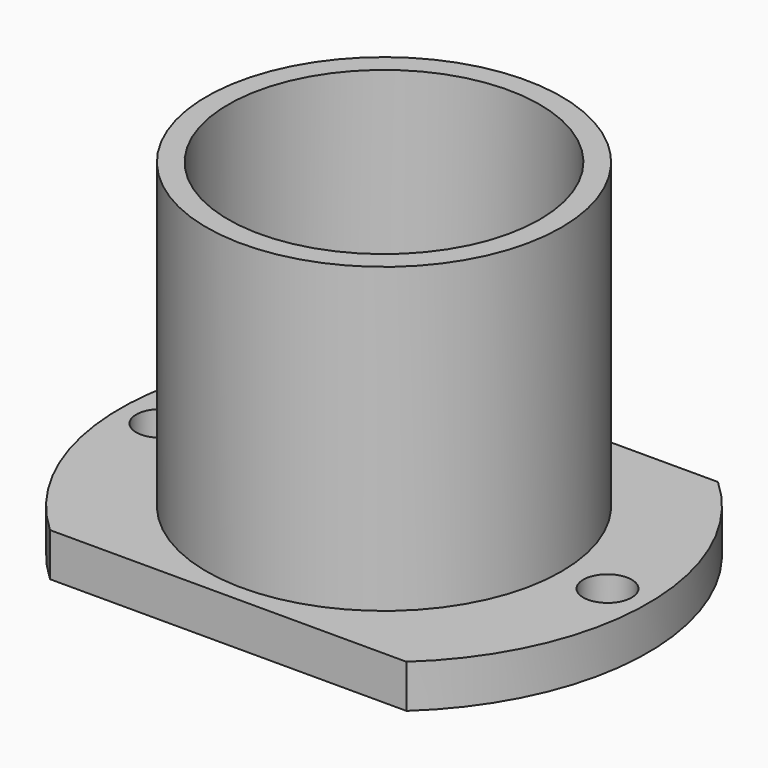
from build123d import *

# Parameters (mm, degrees)
F0_R     = 26.035
F0_R_2   = 22.86
F1_DEPTH = 50.8
F0_R_3   = 3.556
F2_DEPTH = 6.35


with BuildPart() as f1:
    # F0 (on Top) → F1 (new body)
    with BuildSketch(Plane.XY):
        Circle(F0_R)
        Circle(F0_R_2, mode=Mode.SUBTRACT)
    extrude(amount=F1_DEPTH)

    # F0 (on Top) → F2 (join)
    with BuildSketch(Plane.XY):
        with BuildLine():
            Line((26.150901, 28.575), (-26.150901, 28.575))
            ThreePointArc((-26.150901, 28.575), (-38.735, 0), (-26.150901, -28.575))
            Line((-26.150901, -28.575), (26.150901, -28.575))
            ThreePointArc((26.150901, -28.575), (38.735, 0), (26.150901, 28.575))
        make_face()
        with Locations((-32.804761, 0)):
            Circle(F0_R_3, mode=Mode.SUBTRACT)
        Circle(F0_R, mode=Mode.SUBTRACT)
        with Locations((32.804761, 0)):
            Circle(F0_R_3, mode=Mode.SUBTRACT)
    extrude(amount=F2_DEPTH)


solid = f1.part
